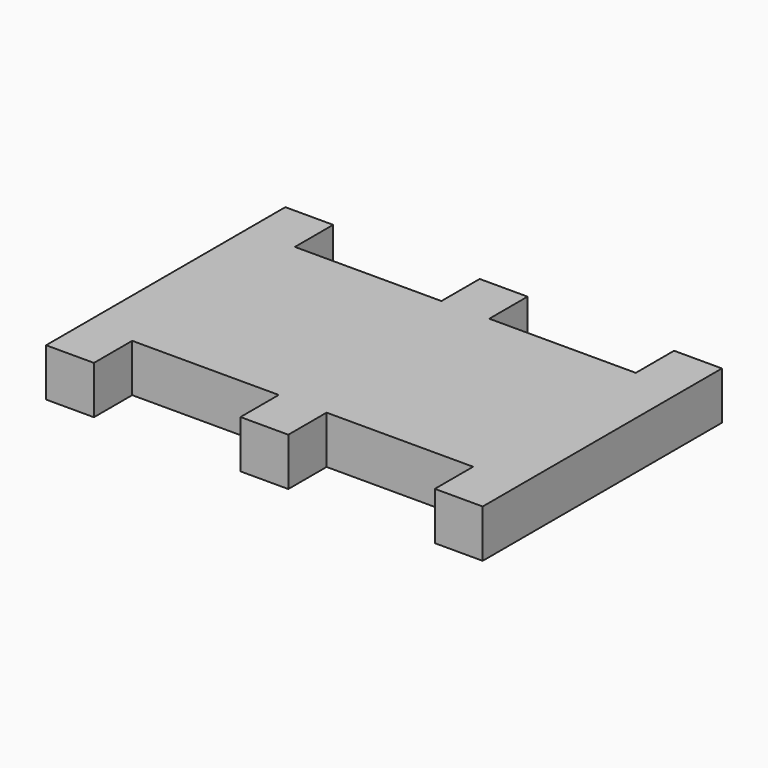
from build123d import *

# Parameters (mm, degrees)
F1_DEPTH = 1.6


with BuildPart() as f1:
    # F0 (on Top) → F1 (new body, symmetric)
    with BuildSketch(Plane.XY):
        Polygon((1.6, 6.8), (1.6, 10), (-1.6, 10), (-1.6, -10), (1.6, -10), (1.6, -6.8), (11.4, -6.8), (11.4, -10), (14.6, -10), (14.6, -6.8), (24.4, -6.8), (24.4, -10), (27.6, -10), (27.6, 10), (24.4, 10), (24.4, 6.8), (14.6, 6.8), (14.6, 10), (11.4, 10), (11.4, 6.8), align=None)
    extrude(amount=F1_DEPTH, both=True)


solid = f1.part
